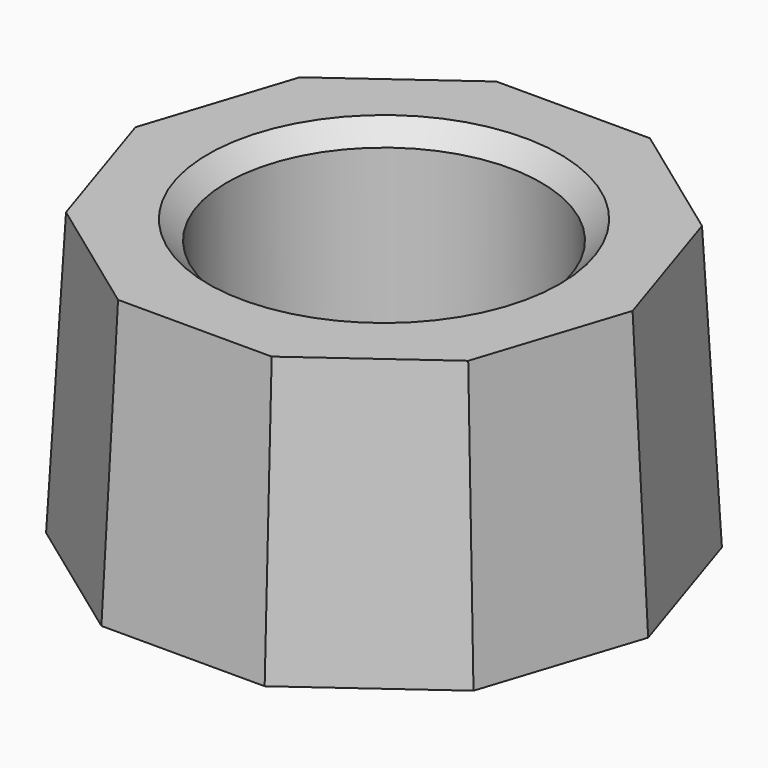
from build123d import *

# Parameters (mm, degrees)
F1_DEPTH = 4.5
F1_TAPER = 3
F2_R     = 2.5
F3_DEPTH = 25
F4_SIZE  = 0.3


with BuildPart() as f1:
    # F0 (on Top) → F1 (new body)
    with BuildSketch(Plane.XY):
        Polygon((-1.2996787849, -4), (1.2996787849, -4), (3.4026032334, -2.472135955), (4.205848897, 0), (3.4026032334, 2.472135955), (1.2996787849, 4), (-1.2996787849, 4), (-3.4026032334, 2.472135955), (-4.205848897, 0), (-3.4026032334, -2.472135955), align=None)
    extrude(amount=F1_DEPTH, taper=F1_TAPER)

    # F2 (on face) → F3 (cut)
    with BuildSketch(Plane.XY.offset(4.5)):
        Circle(F2_R)
    extrude(amount=-F3_DEPTH, mode=Mode.SUBTRACT)

    # F4
    f4_edges = [f1.edges().sort_by_distance(p)[0] for p in [
        (-2.5, 0, 4.5),
        (-2.5, 0, 0),
    ]]
    chamfer(f4_edges, length=F4_SIZE)


solid = f1.part
